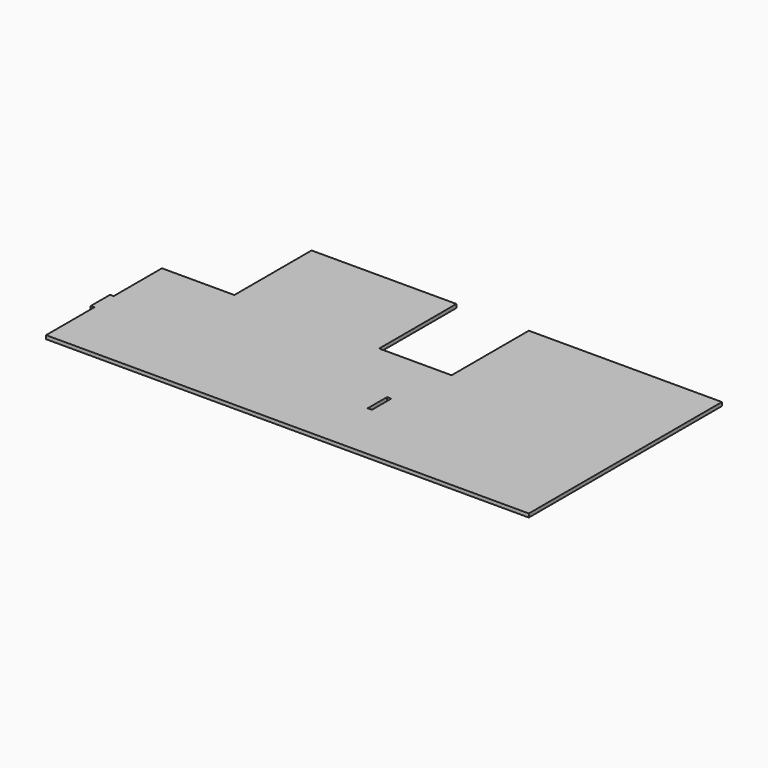
from build123d import *

# Parameters (mm, degrees)
F0_W     = 3.5
F0_H     = 20
F1_DEPTH = 3
F2_W     = 3
F2_H     = 20
F3_DEPTH = 3


with BuildPart() as f1:
    # F0 (on Top) → F1 (new body)
    with BuildSketch(Plane.XY):
        Polygon((60, 200), (60, 120), (0, 120), (0, 0), (400, 0), (400, 200), (240, 200), (240, 120), (180, 120), (180, 200), align=None)
        with Locations((228.25, 60)):
            Rectangle(F0_W, F0_H, mode=Mode.SUBTRACT)
    extrude(amount=F1_DEPTH)

    # F2 (on face) → F3 (join, through all)
    with BuildSketch(Plane.XY.offset(3)):
        with Locations((-1.5, 60)):
            Rectangle(F2_W, F2_H)
    extrude(amount=-F3_DEPTH)


solid = f1.part
